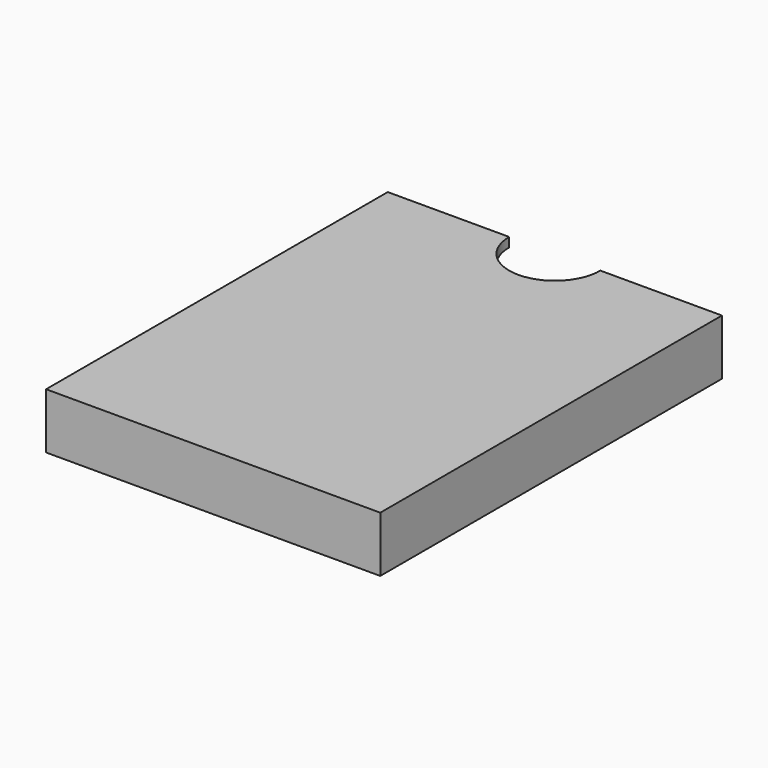
from build123d import *

# Parameters (mm, degrees)
F0_W     = 228.6
F0_H     = 292.1
F1_DEPTH = 38.1
F2_W     = 215.9
F2_H     = 25.4
F3_DEPTH = 279.4
F4_R     = 31.202064
F5_DEPTH = 6.35
F6_R     = 7.745315
F7_DEPTH = 6.35


with BuildPart() as f1:
    # F0 (on Top) → F1 (new body)
    with BuildSketch(Plane.XY):
        with Locations((0.30422, -19.358111)):
            Rectangle(F0_W, F0_H)
    extrude(amount=F1_DEPTH)

    # F2 (on face) → F3 (cut)
    with BuildSketch(Plane(origin=(0, 126.691889, 0), x_dir=(-1, 0, 0), z_dir=(0, 1, 0))):
        with Locations((-0.30422, 19.05)):
            Rectangle(F2_W, F2_H)
    extrude(amount=-F3_DEPTH, mode=Mode.SUBTRACT)

    # F4 (on face) → F5 (cut)
    with BuildSketch(Plane.XY.offset(38.1)):
        with Locations((0.30422, 126.691889)):
            Circle(F4_R)
    extrude(amount=-F5_DEPTH, mode=Mode.SUBTRACT)

    # F6 (on face) → F7 (cut)
    with BuildSketch(Plane(origin=(0, 0, 0), x_dir=(1, 0, 0), z_dir=(0, 0, -1))):
        with Locations((-63.446887, 114.401668)):
            Circle(F6_R)
        with Locations((-63.446887, 12.801668)):
            Circle(F6_R)
        with Locations((-63.446887, -88.798332)):
            Circle(F6_R)
        with Locations((63.553113, 114.401668)):
            Circle(F6_R)
        with Locations((63.553113, 12.801668)):
            Circle(F6_R)
        with Locations((63.553113, -88.798332)):
            Circle(F6_R)
    extrude(amount=-F7_DEPTH, mode=Mode.SUBTRACT)


solid = f1.part
